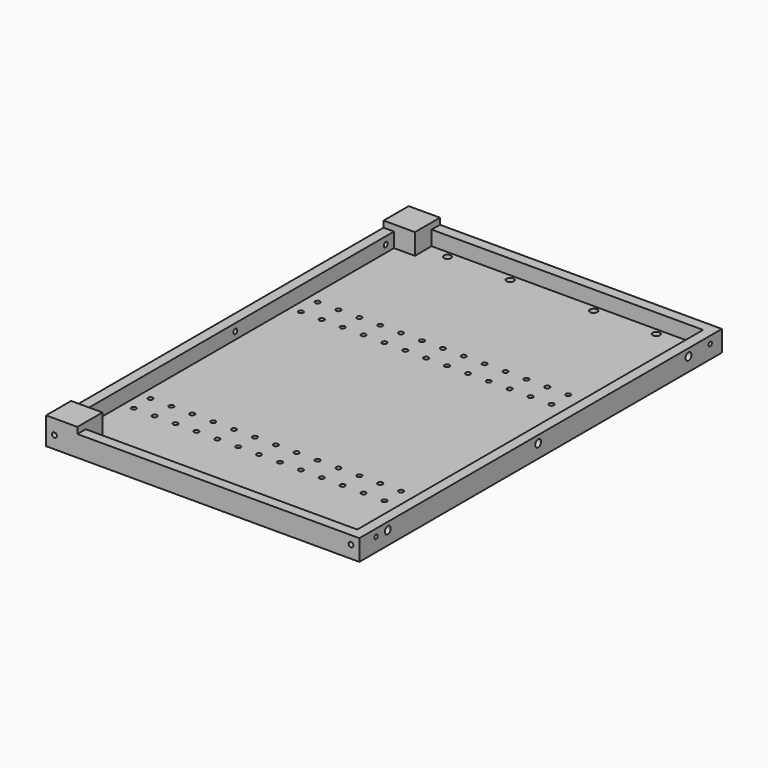
from build123d import *

# Parameters (mm, degrees)
SKETCH_W        = 150
SKETCH_H        = 217
SKETCH_R        = 1.15
SKETCH_R_2      = 1.75
PAD_DEPTH       = 3
SKETCH001_W     = 150
SKETCH001_H     = 217
PAD001_DEPTH    = 7
SKETCH002_R     = 1.75
SKETCH002_R_2   = 1
POCKET_DEPTH    = 5
SKETCH003_R     = 1.15
POCKET001_DEPTH = 7.5
SKETCH004_R     = 1.15
POCKET002_DEPTH = 10
SKETCH005_W     = 15
SKETCH005_H     = 15
PAD002_DEPTH    = 3


with BuildPart() as part:
    # Sketch → Pad (new body)
    with BuildSketch(Plane.XY):
        with Locations((-75, 108.5)):
            Rectangle(SKETCH_W, SKETCH_H)
        with Locations((-140, 40)):
            Circle(SKETCH_R, mode=Mode.SUBTRACT)
        with Locations((-130, 40)):
            Circle(SKETCH_R, mode=Mode.SUBTRACT)
        with Locations((-120, 40)):
            Circle(SKETCH_R, mode=Mode.SUBTRACT)
        with Locations((-110, 40)):
            Circle(SKETCH_R, mode=Mode.SUBTRACT)
        with Locations((-100, 40)):
            Circle(SKETCH_R, mode=Mode.SUBTRACT)
        with Locations((-90, 40)):
            Circle(SKETCH_R, mode=Mode.SUBTRACT)
        with Locations((-80, 40)):
            Circle(SKETCH_R, mode=Mode.SUBTRACT)
        with Locations((-70, 40)):
            Circle(SKETCH_R, mode=Mode.SUBTRACT)
        with Locations((-60, 40)):
            Circle(SKETCH_R, mode=Mode.SUBTRACT)
        with Locations((-50, 40)):
            Circle(SKETCH_R, mode=Mode.SUBTRACT)
        with Locations((-40, 40)):
            Circle(SKETCH_R, mode=Mode.SUBTRACT)
        with Locations((-30, 40)):
            Circle(SKETCH_R, mode=Mode.SUBTRACT)
        with Locations((-20, 40)):
            Circle(SKETCH_R, mode=Mode.SUBTRACT)
        with Locations((-10, 40)):
            Circle(SKETCH_R, mode=Mode.SUBTRACT)
        with Locations((-140, 50)):
            Circle(SKETCH_R, mode=Mode.SUBTRACT)
        with Locations((-130, 50)):
            Circle(SKETCH_R, mode=Mode.SUBTRACT)
        with Locations((-120, 50)):
            Circle(SKETCH_R, mode=Mode.SUBTRACT)
        with Locations((-110, 50)):
            Circle(SKETCH_R, mode=Mode.SUBTRACT)
        with Locations((-100, 50)):
            Circle(SKETCH_R, mode=Mode.SUBTRACT)
        with Locations((-90, 50)):
            Circle(SKETCH_R, mode=Mode.SUBTRACT)
        with Locations((-80, 50)):
            Circle(SKETCH_R, mode=Mode.SUBTRACT)
        with Locations((-70, 50)):
            Circle(SKETCH_R, mode=Mode.SUBTRACT)
        with Locations((-60, 50)):
            Circle(SKETCH_R, mode=Mode.SUBTRACT)
        with Locations((-50, 50)):
            Circle(SKETCH_R, mode=Mode.SUBTRACT)
        with Locations((-40, 50)):
            Circle(SKETCH_R, mode=Mode.SUBTRACT)
        with Locations((-30, 50)):
            Circle(SKETCH_R, mode=Mode.SUBTRACT)
        with Locations((-20, 50)):
            Circle(SKETCH_R, mode=Mode.SUBTRACT)
        with Locations((-10, 50)):
            Circle(SKETCH_R, mode=Mode.SUBTRACT)
        with Locations((-140, 140)):
            Circle(SKETCH_R, mode=Mode.SUBTRACT)
        with Locations((-130, 140)):
            Circle(SKETCH_R, mode=Mode.SUBTRACT)
        with Locations((-120, 140)):
            Circle(SKETCH_R, mode=Mode.SUBTRACT)
        with Locations((-110, 140)):
            Circle(SKETCH_R, mode=Mode.SUBTRACT)
        with Locations((-100, 140)):
            Circle(SKETCH_R, mode=Mode.SUBTRACT)
        with Locations((-90, 140)):
            Circle(SKETCH_R, mode=Mode.SUBTRACT)
        with Locations((-80, 140)):
            Circle(SKETCH_R, mode=Mode.SUBTRACT)
        with Locations((-70, 140)):
            Circle(SKETCH_R, mode=Mode.SUBTRACT)
        with Locations((-60, 140)):
            Circle(SKETCH_R, mode=Mode.SUBTRACT)
        with Locations((-50, 140)):
            Circle(SKETCH_R, mode=Mode.SUBTRACT)
        with Locations((-40, 140)):
            Circle(SKETCH_R, mode=Mode.SUBTRACT)
        with Locations((-30, 140)):
            Circle(SKETCH_R, mode=Mode.SUBTRACT)
        with Locations((-20, 140)):
            Circle(SKETCH_R, mode=Mode.SUBTRACT)
        with Locations((-10, 140)):
            Circle(SKETCH_R, mode=Mode.SUBTRACT)
        with Locations((-140, 150)):
            Circle(SKETCH_R, mode=Mode.SUBTRACT)
        with Locations((-130, 150)):
            Circle(SKETCH_R, mode=Mode.SUBTRACT)
        with Locations((-120, 150)):
            Circle(SKETCH_R, mode=Mode.SUBTRACT)
        with Locations((-110, 150)):
            Circle(SKETCH_R, mode=Mode.SUBTRACT)
        with Locations((-100, 150)):
            Circle(SKETCH_R, mode=Mode.SUBTRACT)
        with Locations((-90, 150)):
            Circle(SKETCH_R, mode=Mode.SUBTRACT)
        with Locations((-80, 150)):
            Circle(SKETCH_R, mode=Mode.SUBTRACT)
        with Locations((-70, 150)):
            Circle(SKETCH_R, mode=Mode.SUBTRACT)
        with Locations((-60, 150)):
            Circle(SKETCH_R, mode=Mode.SUBTRACT)
        with Locations((-50, 150)):
            Circle(SKETCH_R, mode=Mode.SUBTRACT)
        with Locations((-40, 150)):
            Circle(SKETCH_R, mode=Mode.SUBTRACT)
        with Locations((-30, 150)):
            Circle(SKETCH_R, mode=Mode.SUBTRACT)
        with Locations((-20, 150)):
            Circle(SKETCH_R, mode=Mode.SUBTRACT)
        with Locations((-10, 150)):
            Circle(SKETCH_R, mode=Mode.SUBTRACT)
        with Locations((-125, 209)):
            Circle(SKETCH_R_2, mode=Mode.SUBTRACT)
        with Locations((-55, 209)):
            Circle(SKETCH_R_2, mode=Mode.SUBTRACT)
        with Locations((-125, 5)):
            Circle(SKETCH_R, mode=Mode.SUBTRACT)
        with Locations((-55, 5)):
            Circle(SKETCH_R, mode=Mode.SUBTRACT)
        with Locations((-25, 5)):
            Circle(SKETCH_R, mode=Mode.SUBTRACT)
        with Locations((-95, 5)):
            Circle(SKETCH_R, mode=Mode.SUBTRACT)
        with Locations((-25, 209)):
            Circle(SKETCH_R_2, mode=Mode.SUBTRACT)
        with Locations((-95, 209)):
            Circle(SKETCH_R_2, mode=Mode.SUBTRACT)
    extrude(amount=PAD_DEPTH)

    # Sketch001 → Pad001 (join)
    with BuildSketch(Plane.XY.offset(3)):
        with Locations((-75, 108.5)):
            Rectangle(SKETCH001_W, SKETCH001_H)
        Polygon((-5, 212), (-135, 212), (-135, 202), (-145, 202), (-145, 15), (-135, 15), (-135, 5), (-5, 5), align=None, mode=Mode.SUBTRACT)
    extrude(amount=PAD001_DEPTH)

    # Sketch002 → Pocket (cut)
    with BuildSketch(Plane.YZ):
        with Locations((17, 6.5)):
            Circle(SKETCH002_R)
        with Locations((107, 6.5)):
            Circle(SKETCH002_R)
        with Locations((197, 6.5)):
            Circle(SKETCH002_R)
        with Locations((10, 6.5)):
            Circle(SKETCH002_R_2)
        with Locations((210, 6.5)):
            Circle(SKETCH002_R_2)
    extrude(amount=-POCKET_DEPTH, mode=Mode.SUBTRACT)

    # Sketch003 → Pocket001 (cut, symmetric)
    with BuildSketch(Plane.YZ.offset(-150)):
        with Locations((107, 6.5)):
            Circle(SKETCH003_R)
        with Locations((17, 6.5)):
            Circle(SKETCH003_R)
        with Locations((197, 6.5)):
            Circle(SKETCH003_R)
    extrude(amount=POCKET001_DEPTH, both=True, mode=Mode.SUBTRACT)

    # Sketch004 → Pocket002 (cut)
    with BuildSketch(Plane.XZ):
        with Locations((-4, 6)):
            Circle(SKETCH004_R)
        with Locations((-146, 6)):
            Circle(SKETCH004_R)
    extrude(amount=-POCKET002_DEPTH, mode=Mode.SUBTRACT)

    # Sketch005 → Pad002 (join)
    with BuildSketch(Plane.XY.offset(10)):
        with Locations((-142.5, 209.5)):
            Rectangle(SKETCH005_W, SKETCH005_H)
        with Locations((-142.5, 7.5)):
            Rectangle(SKETCH005_W, SKETCH005_H)
    extrude(amount=PAD002_DEPTH)


solid = part.part
